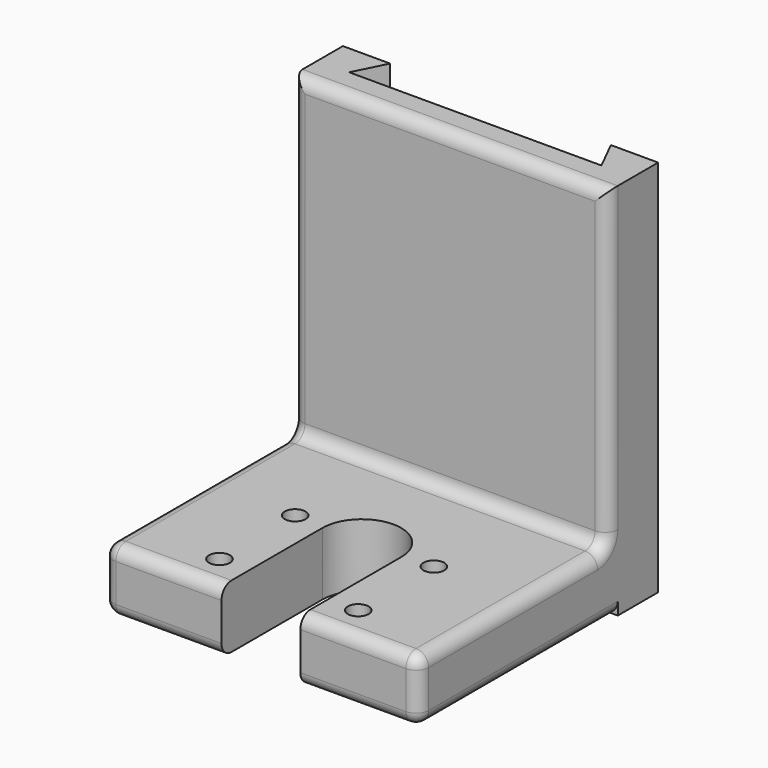
from build123d import *

# Parameters (mm, degrees)
F0_W          = 5
F0_H          = 60
F1_DEPTH      = 25
F1_DEPTH_BACK = 25
F2_W          = 50
F2_H          = 10
F3_DEPTH      = 40
F5_DEPTH      = 25
F6_R          = 2
F8_D          = 3.3
F10_DEPTH     = 60


with BuildPart() as f1:
    # F0 (on Right) → F1 (new body, two sides)
    with BuildSketch(Plane.YZ) as f1_sk:
        Rectangle(F0_W, F0_H)
    extrude(amount=F1_DEPTH)
    extrude(f1_sk.sketch, amount=-F1_DEPTH_BACK)

    # F2 (on Front) → F3 (join)
    with BuildSketch(Plane.XZ):
        with Locations((0, -25)):
            Rectangle(F2_W, F2_H)
    extrude(amount=F3_DEPTH)

    # F4 (on face) → F5 (cut)
    with BuildSketch(Plane.XY.offset(-20)):
        with BuildLine():
            ThreePointArc((6.25, -20), (0, -26.25), (-6.25, -20))
            Line((-6.25, -20), (-6.25, -40))
            Line((-6.25, -40), (6.25, -40))
            Line((6.25, -40), (6.25, -20))
        make_face()
        with BuildLine():
            ThreePointArc((6.25, -20), (0, -13.75), (-6.25, -20))
            ThreePointArc((-6.25, -20), (0, -26.25), (6.25, -20))
        make_face()
    extrude(amount=-F5_DEPTH, mode=Mode.SUBTRACT)

    # F6
    f6_edges = [f1.edges().sort_by_distance(p)[0] for p in [
        (-25, -21.25, -20),
        (-25, -2.5, 5),
        (25, -21.25, -20),
        (25, -2.5, 5),
        (-15.625, -40, -20),
        (15.625, -40, -20),
        (-15.625, -40, -30),
        (-25, -18.75, -30),
        (25, -18.75, -30),
        (15.625, -40, -30),
        (25, -40, -25),
        (-25, -40, -25),
        (0, -2.5, 30),
        (0, -2.5, -20),
    ]]
    fillet(f6_edges, radius=F6_R)

    # F8 (through all)
    with Locations(Plane.XY.offset(-20)):
        with Locations((-11, -19.460708499), (11, -19.460708499), (11, -34.460708499), (-11, -34.460708499)):
            Hole(F8_D / 2)

    # F9 (on face) → F10 (join)
    with BuildSketch(Plane.XY.offset(30)):
        Polygon((-25, 7.5), (-25, -0.5), (25, -0.5), (25, 7.5), (17.5, 7.5), (20, 2.5), (-20, 2.5), (-17.5, 7.5), align=None)
    extrude(amount=-F10_DEPTH)


solid = f1.part
